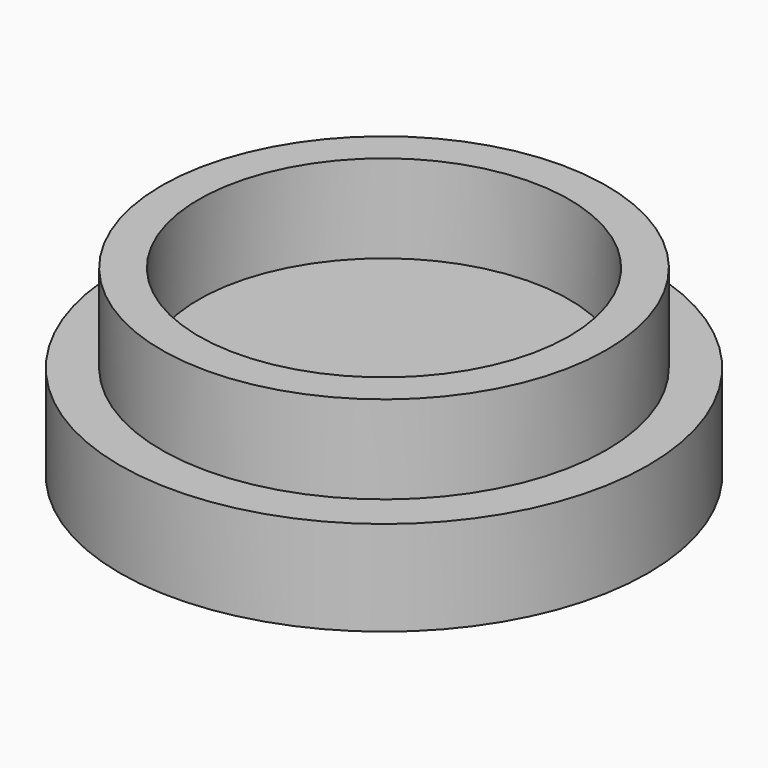
from build123d import *

# Parameters (mm, degrees)
F1_W = 19.812
F1_H = 7.112
F0_W = 2.794
F0_H = 6.604


with BuildPart() as f2:
    # F1 (on Front) + F0 (on Front) → F2 (revolve)
    with BuildSketch(Plane.XZ):
        with Locations((9.906, 0)):
            Rectangle(F1_W, F1_H)
    with BuildSketch(Plane.XZ):
        with Locations((15.2908, 6.858)):
            Rectangle(F0_W, F0_H)
    revolve(axis=Axis((0, 0, 0), (0, 0, -1)))


solid = f2.part
